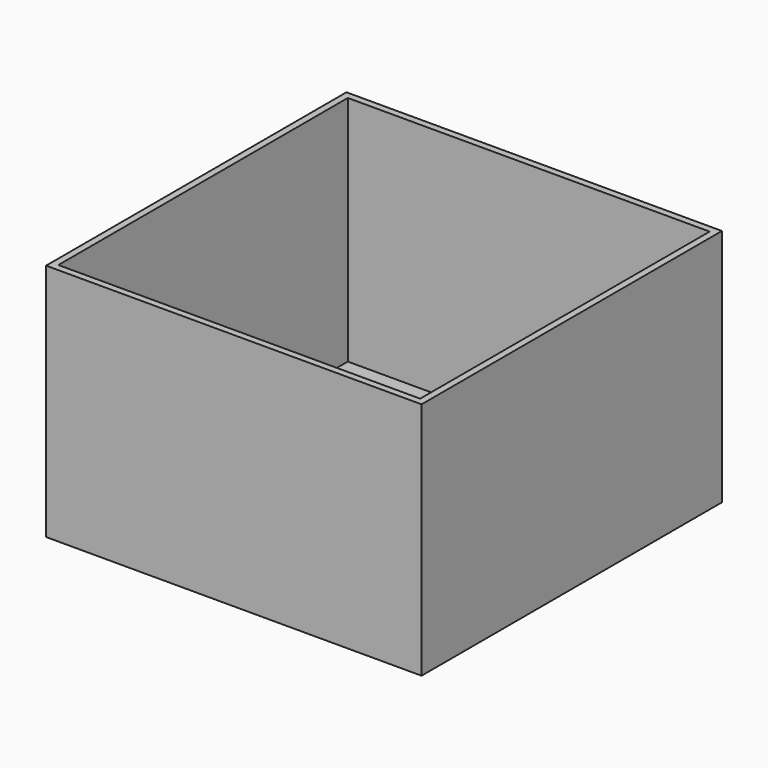
from build123d import *

# Parameters (mm, degrees)
F0_W     = 550
F0_H     = 550
F1_DEPTH = 350
F2_W     = 530
F2_H     = 530
F3_DEPTH = 340


with BuildPart() as f1:
    # F0 (on Top) → F1 (new body)
    with BuildSketch(Plane.XY):
        with Locations((275, 275)):
            Rectangle(F0_W, F0_H)
    extrude(amount=-F1_DEPTH)

    # F2 (on Top) → F3 (cut)
    with BuildSketch(Plane.XY):
        with Locations((275, 275)):
            Rectangle(F2_W, F2_H)
    extrude(amount=-F3_DEPTH, mode=Mode.SUBTRACT)


solid = f1.part
